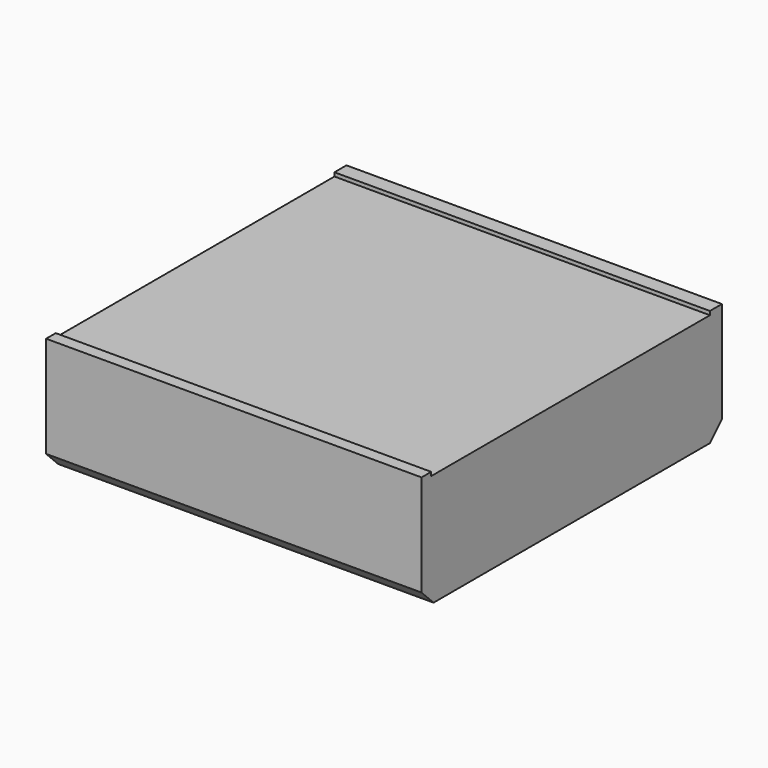
from build123d import *

# Parameters (mm, degrees)
F0_W     = 50
F0_H     = 50
F1_DEPTH = 15
F2_SIZE  = 2
F3_W     = 30
F3_H     = 5.985749
F4_DEPTH = 1
F5_R     = 1
F6_W     = 50
F6_H     = 2
F6_H_2   = 1.608082
F7_DEPTH = 0.5


with BuildPart() as f1:
    # F0 (on Top) → F1 (new body)
    with BuildSketch(Plane.XY):
        with Locations((25, 25)):
            Rectangle(F0_W, F0_H)
    extrude(amount=F1_DEPTH)

    # F2
    f2_edges = [f1.edges().sort_by_distance(p)[0] for p in [
        (25, 0, 0),
        (25, 50, 0),
    ]]
    chamfer(f2_edges, length=F2_SIZE)

    # F3 (on face) → F4 (cut)
    with BuildSketch(Plane(origin=(0, 0, 0), x_dir=(0, -1, 0), z_dir=(-1, 0, 0))):
        with Locations((-25, 8.007126)):
            Rectangle(F3_W, F3_H)
    extrude(amount=-F4_DEPTH, mode=Mode.SUBTRACT)

    # F5
    f5_edges = [f1.edges().sort_by_distance(p)[0] for p in [
        (0.5, 40, 11),
        (0.5, 40, 5.014251),
        (0.5, 10, 11),
        (0.5, 10, 5.014251),
    ]]
    fillet(f5_edges, radius=F5_R)

    # F6 (on face) → F7 (join)
    with BuildSketch(Plane.XY.offset(15)):
        with Locations((25, 49)):
            Rectangle(F6_W, F6_H)
        with Locations((25, 0.804041)):
            Rectangle(F6_W, F6_H_2)
    extrude(amount=F7_DEPTH)


solid = f1.part
